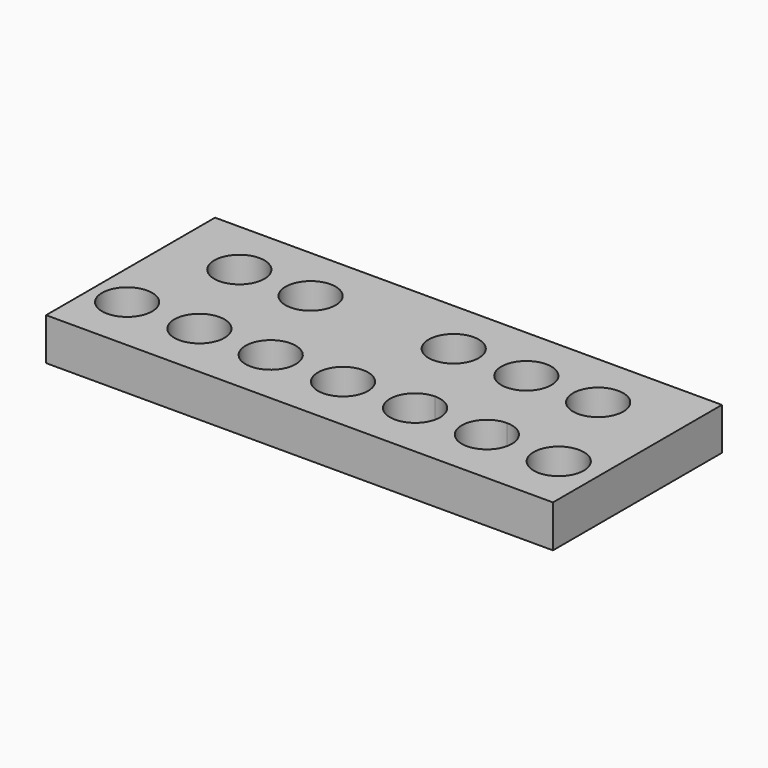
from build123d import *

# Parameters (mm, degrees)
F0_W     = 254
F0_H     = 50.8
F1_DEPTH = 609.6
F2_R     = 30.1625
F3_DEPTH = 107.192695


with BuildPart() as f1:
    # F0 (on Right) → F1 (new body)
    with BuildSketch(Plane.YZ):
        with Locations((-10.621817, -25.4)):
            Rectangle(F0_W, F0_H)
    extrude(amount=F1_DEPTH)

    # F2 (on Top) → F3 (cut)
    with BuildSketch(Plane.XY):
        with Locations((42.8625, -69.359317)):
            Circle(F2_R)
        with Locations((83.82, 48.115683)):
            Circle(F2_R)
        with Locations((129.54, -69.041817)):
            Circle(F2_R)
        with Locations((169.545, 48.115683)):
            Circle(F2_R)
        with Locations((215.265, -69.041817)):
            Circle(F2_R)
        with Locations((302.26, -69.041817)):
            Circle(F2_R)
        with BuildLine():
            ThreePointArc((388.63007, -38.561817), (367.301962, -90.052425), (418.79257, -68.724317))
            ThreePointArc((418.79257, -68.724317), (409.958178, -47.396209), (388.63007, -38.561817))
        make_face()
        with BuildLine():
            ThreePointArc((505.143344, -68.724317), (496.308952, -47.396209), (474.980844, -38.561817))
            ThreePointArc((474.980844, -38.561817), (453.652735, -90.052425), (505.143344, -68.724317))
        make_face()
        with Locations((341.63, 48.115683)):
            Circle(F2_R)
        with Locations((429.26, 47.798183)):
            Circle(F2_R)
        with Locations((515.62, 47.798183)):
            Circle(F2_R)
        with Locations((561.6575, -69.041817)):
            Circle(F2_R)
    extrude(amount=-F3_DEPTH, mode=Mode.SUBTRACT)


solid = f1.part
